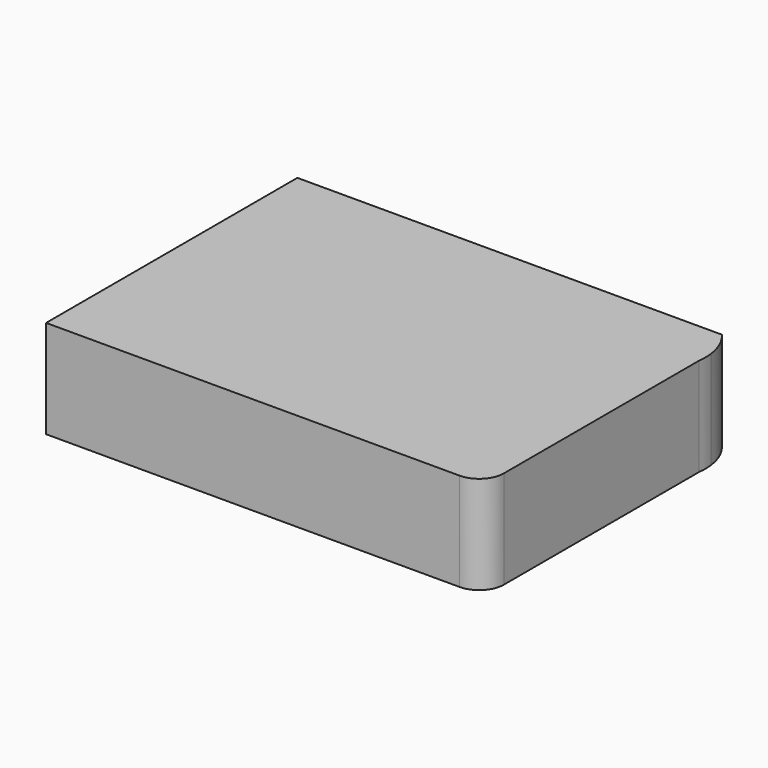
from build123d import *

# Parameters (mm, degrees)
F1_DEPTH = 25.4


with BuildPart() as f1:
    # F0 (on Top) → F1 (new body)
    with BuildSketch(Plane.XY):
        with BuildLine():
            Line((25.366824, 43.394551), (-61.614241, 43.394551))
            Line((-61.614241, 43.394551), (-61.614241, -37.99203))
            Line((-61.614241, -37.99203), (45.545957, -37.99203))
            ThreePointArc((45.545957, -37.99203), (50.036086, -36.132158), (51.895957, -31.64203))
            Line((51.895957, -31.64203), (51.895957, 31.554978))
            ThreePointArc((51.895957, 31.554978), (30.702339, 19.708002), (25.366824, 43.394551))
        make_face()
        with BuildLine():
            Line((48.386586, 43.394551), (25.366824, 43.394551))
            ThreePointArc((25.366824, 43.394551), (30.702339, 19.708002), (51.895957, 31.554978))
            Line((51.895957, 31.554978), (51.895957, 35.531041))
            ThreePointArc((51.895957, 35.531041), (50.711712, 39.717375), (48.386586, 43.394551))
        make_face()
        with BuildLine():
            Line((51.895957, 35.531041), (51.895957, 31.554978))
            ThreePointArc((51.895957, 31.554978), (52.02696, 33.543009), (51.895957, 35.531041))
        make_face()
    extrude(amount=F1_DEPTH)


solid = f1.part
